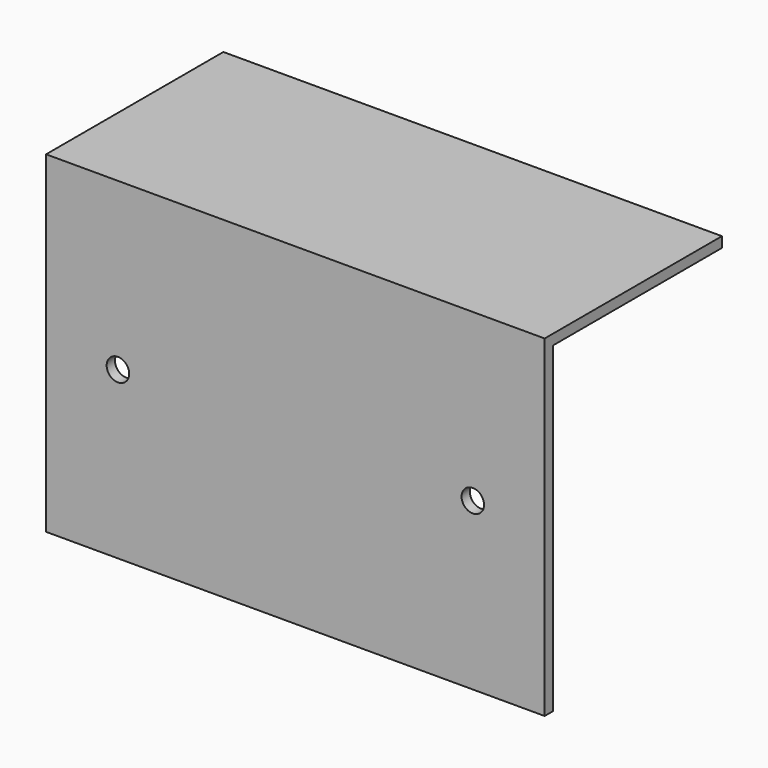
from build123d import *

# Parameters (mm, degrees)
F1_DEPTH = 228.6
F3_DEPTH = 6.35
F4_R     = 10.31875
F5_DEPTH = 25.4


with BuildPart() as f1:
    # F0 (on Right) → F1 (new body, symmetric)
    with BuildSketch(Plane.YZ):
        Polygon((101.6, 142.875), (101.6, 152.4), (-101.6, 152.4), (-101.6, -152.4), (-92.075, -152.4), (-92.075, 142.875), align=None)
    extrude(amount=F1_DEPTH, both=True)

    # F2 (on Right) → F3 (join, symmetric)
    with BuildSketch(Plane.YZ):
        Polygon((-92.075, -152.4), (101.6, 142.875), (-92.075, 142.875), align=None)
    extrude(amount=F3_DEPTH, both=True)

    # F4 (on face) → F5 (cut)
    with BuildSketch(Plane(origin=(0, -92.075, 0), x_dir=(-1, 0, 0), z_dir=(0, 1, 0))):
        with Locations((-162.71875, 0)):
            Circle(F4_R)
        with Locations((162.71875, 0)):
            Circle(F4_R)
    extrude(amount=-F5_DEPTH, mode=Mode.SUBTRACT)


solid = f1.part
